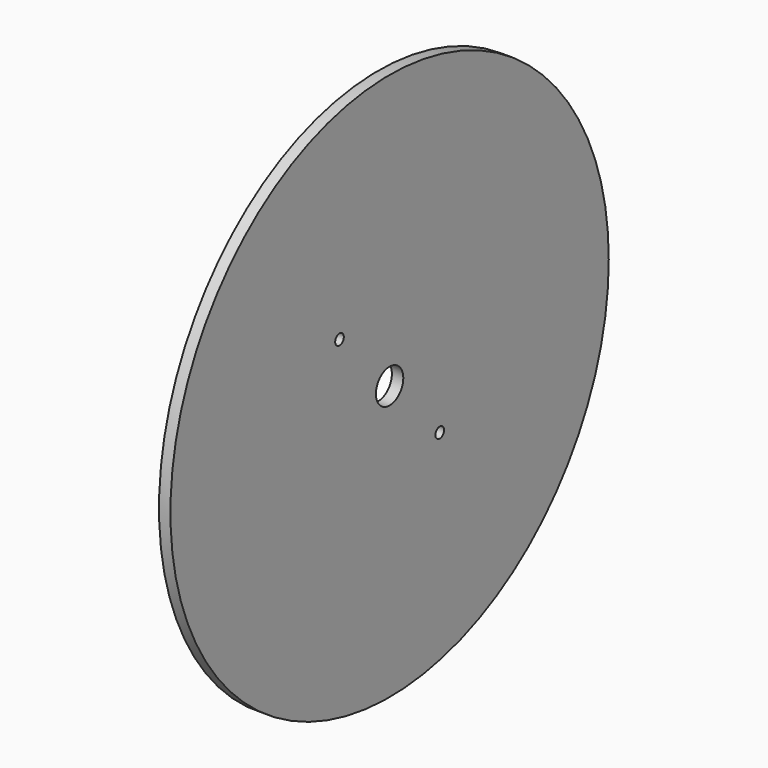
from build123d import *

# Parameters (mm, degrees)
F0_R     = 76.2
F0_R_2   = 4.7625
F1_DEPTH = 3.175
F2_R     = 1.5875
F3_DEPTH = 3.176
F4_R     = 1.4986
F5_DEPTH = 25.4


with BuildPart() as f1:
    # F0 (on Right) → F1 (new body)
    with BuildSketch(Plane.YZ):
        Circle(F0_R)
        Circle(F0_R_2, mode=Mode.SUBTRACT)
    extrude(amount=F1_DEPTH)

    # F2 (on face) → F3 (cut, through all)
    with BuildSketch(Plane.YZ.offset(3.175)):
        Circle(F2_R)
    extrude(amount=-F3_DEPTH, mode=Mode.SUBTRACT)

    # F4 (on face) → F5 (cut)
    with BuildSketch(Plane.YZ.offset(3.175)):
        with Locations((-17.420961, 18.484321)):
            Circle(F4_R)
        with Locations((17.420961, -18.484321)):
            Circle(F4_R)
    extrude(amount=-F5_DEPTH, mode=Mode.SUBTRACT)


solid = f1.part
